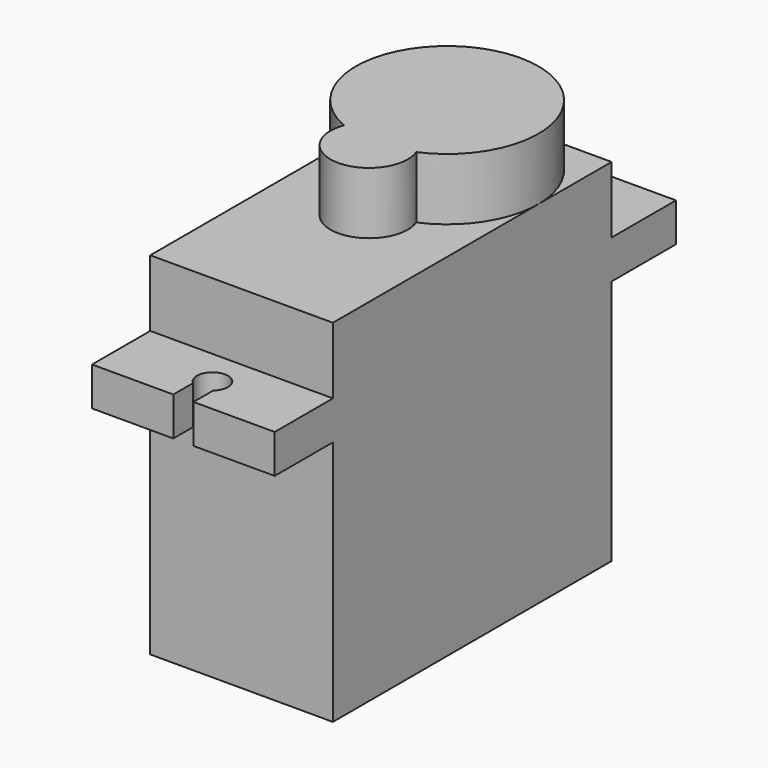
from build123d import *

# Parameters (mm, degrees)
BOX004_W          = 1.3
BOX004_H          = 3.3
BOX004_DEPTH      = 10
BOX003_W          = 1.3
BOX003_H          = 3.3
BOX003_DEPTH      = 10
CYLINDER004_R     = 1
CYLINDER004_DEPTH = 10
CYLINDER003_R     = 1
CYLINDER003_DEPTH = 10
CYLINDER001_R     = 2.5
CYLINDER001_DEPTH = 4
CYLINDER_R        = 5.9
CYLINDER_DEPTH    = 4
BOX002_W          = 11.8
BOX002_H          = 32.4
BOX002_DEPTH      = 2.5
BOX001_W          = 11.8
BOX001_H          = 22.5
BOX001_DEPTH      = 22.7


with BuildPart() as cubo004:
    # Box004 → Box004 (new body)
    with BuildSketch(Plane(origin=(5.25, 25, 12), x_dir=(1, 0, 0), z_dir=(0, 0, 1))):
        with Locations((0.65, 1.65)):
            Rectangle(BOX004_W, BOX004_H)
    extrude(amount=BOX004_DEPTH)


with BuildPart() as obj1:
    # Box003 → Box003 (new body)
    with BuildSketch(Plane(origin=(5.25, -6, 12), x_dir=(1, 0, 0), z_dir=(0, 0, 1))):
        with Locations((0.65, 1.65)):
            Rectangle(BOX003_W, BOX003_H)
    extrude(amount=BOX003_DEPTH)

    # Fusion005: union Cubo004
    add(cubo004.part)


with BuildPart() as taladro2:
    # Cylinder004 → Cylinder004 (new body)
    with BuildSketch(Plane(origin=(5.9, 24.85, 11), x_dir=(1, 0, 0), z_dir=(0, 0, 1))):
        Circle(CYLINDER004_R)
    extrude(amount=CYLINDER004_DEPTH)


with BuildPart() as taladros001:
    # Cylinder003 → Cylinder003 (new body)
    with BuildSketch(Plane(origin=(5.9, -2.35, 11), x_dir=(1, 0, 0), z_dir=(0, 0, 1))):
        Circle(CYLINDER003_R)
    extrude(amount=CYLINDER003_DEPTH)

    # Fusion004: union Taladro2
    add(taladro2.part)

    # Fusion006: union obj1
    add(obj1.part)


with BuildPart() as cilindro001:
    # Cylinder001 → Cylinder001 (new body)
    with BuildSketch(Plane(origin=(5.9, 10.3, 22.7), x_dir=(1, 0, 0), z_dir=(0, 0, 1))):
        Circle(CYLINDER001_R)
    extrude(amount=CYLINDER001_DEPTH)


with BuildPart() as fusion001:
    # Cylinder → Cylinder (new body)
    with BuildSketch(Plane(origin=(5.9, 16.6, 22.7), x_dir=(1, 0, 0), z_dir=(0, 0, 1))):
        Circle(CYLINDER_R)
    extrude(amount=CYLINDER_DEPTH)

    # Fusion001: union Cilindro001
    add(cilindro001.part)


with BuildPart() as cubo002:
    # Box002 → Box002 (new body)
    with BuildSketch(Plane(origin=(0, -4.7, 15.9), x_dir=(1, 0, 0), z_dir=(0, 0, 1))):
        with Locations((5.9, 16.2)):
            Rectangle(BOX002_W, BOX002_H)
    extrude(amount=BOX002_DEPTH)


with BuildPart() as cuerpo_con_taladros:
    # Box001 → Box001 (new body)
    with BuildSketch(Plane.XY):
        with Locations((5.9, 11.25)):
            Rectangle(BOX001_W, BOX001_H)
    extrude(amount=BOX001_DEPTH)

    # Fusion: union Cubo002
    add(cubo002.part)

    # Fusion003: union Fusion001
    add(fusion001.part)

    # Cut001: cut Taladros001
    add(taladros001.part, mode=Mode.SUBTRACT)


with BuildPart() as cuerpo_con_taladros_1:
    # Cut001 placement: moved
    add(cuerpo_con_taladros.part.moved(Location((-5.9, 0, 0))))


solid = cuerpo_con_taladros_1.part
